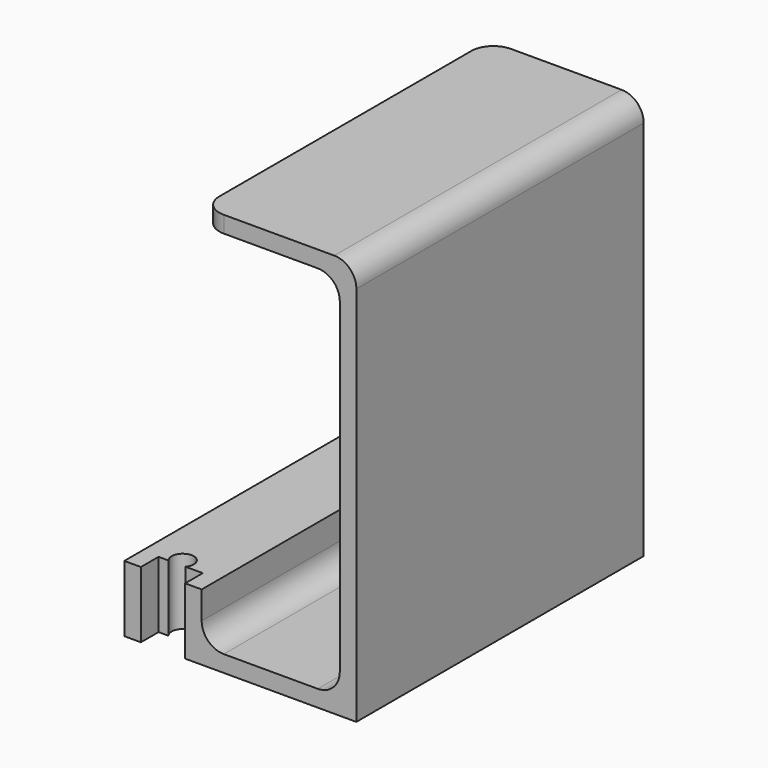
from build123d import *

# Parameters (mm, degrees)
F0_R     = 2
F1_DEPTH = 12
F0_W     = 25
F0_H     = 65
F2_DEPTH = 3
F0_W_2   = 3
F3_DEPTH = 70
F5_DEPTH = 65
F6_R     = 4


with BuildPart() as f1:
    # F0 (on Top) → F1 (new body)
    with BuildSketch(Plane.XY):
        with BuildLine():
            Line((-25.194335, 35.187962), (-28.194335, 35.187962))
            Line((-28.194335, 35.187962), (-28.194335, -29.812038))
            Line((-28.194335, -29.812038), (-25.194335, -29.812038))
            Line((-25.194335, -29.812038), (-25.194335, -25.812038))
            Line((-25.194335, -25.812038), (-23.376417, -25.812038))
            ThreePointArc((-23.376417, -25.812038), (-22.567294, -22.626637), (-19.866929, -24.5))
            ThreePointArc((-19.866929, -24.5), (-19.993566, -25.200365), (-20.35744, -25.812038))
            Line((-20.35744, -25.812038), (-17.194335, -25.812038))
            Line((-17.194335, -25.812038), (-17.194335, -29.812038))
            Line((-17.194335, -29.812038), (-14.194335, -29.812038))
            Line((-14.194335, -29.812038), (-14.194335, 35.187962))
            Line((-14.194335, 35.187962), (-17.194335, 35.187962))
            Line((-17.194335, 35.187962), (-17.194335, 31.187962))
            Line((-17.194335, 31.187962), (-25.194335, 31.187962))
            Line((-25.194335, 31.187962), (-25.194335, 35.187962))
        make_face()
        with Locations((-21.866929, 24.5)):
            Circle(F0_R, mode=Mode.SUBTRACT)
    extrude(amount=F1_DEPTH)

    # F0 (on Top) → F2 (join)
    with BuildSketch(Plane.XY):
        with Locations((-1.694335, 2.687962)):
            Rectangle(F0_W, F0_H)
    extrude(amount=F2_DEPTH)

    # F0 (on Top) → F3 (join)
    with BuildSketch(Plane.XY):
        with Locations((12.305665, 2.687962)):
            Rectangle(F0_W_2, F0_H)
    extrude(amount=F3_DEPTH)

    # F4 (on face) → F5 (join)
    with BuildSketch(Plane.XZ.offset(29.812038)):
        Polygon((10.805665, 70), (13.805665, 70), (13.805665, 73), (-14.194335, 73), (-14.194335, 70), align=None)
    extrude(amount=-F5_DEPTH)

    # F6
    f6_edges = [f1.edges().sort_by_distance(p)[0] for p in [
        (10.805665, 2.687962, 3),
        (10.805665, 2.687962, 70),
        (-14.194335, 2.687962, 3),
        (13.805665, 2.687962, 73),
        (-14.194335, -29.812038, 71.5),
        (-14.194335, 35.187962, 71.5),
    ]]
    fillet(f6_edges, radius=F6_R)


solid = f1.part
